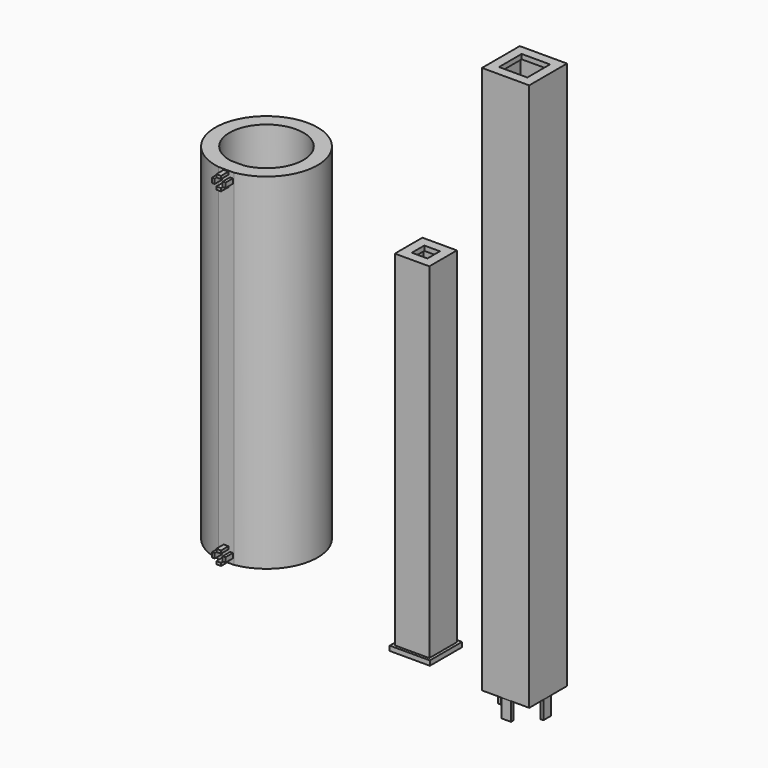
from build123d import *

# Parameters (mm, degrees)
F0_W      = 25.4
F0_H      = 25.4
F0_W_2    = 5.08
F0_H_2    = 1.524
F0_W_3    = 1.524
F0_H_3    = 5.08
F0_W_4    = 20.32
F0_H_4    = 20.32
F0_W_5    = 15.24
F0_H_5    = 15.24
F1_DEPTH  = 294.64
F2_DEPTH  = 292.1
F0_W_6    = 18.542
F0_H_6    = 18.542
F0_W_7    = 13.462
F0_H_7    = 13.462
F0_W_8    = 8.382
F0_H_8    = 8.382
F3_DEPTH  = 187.96
F4_DEPTH  = 185.42
F0_W_9    = 21.59
F0_H_9    = 21.59
F5_DEPTH  = 2.54
F6_DEPTH  = 10.16
F7_DEPTH  = 185.674
F8_W      = 1.524
F8_H      = 2.54
F8_W_2    = 2.54
F8_H_2    = 1.524
F9_DEPTH  = 4.953
F0_W_10   = 2.794
F0_H_10   = 1.778
F0_W_11   = 1.778
F0_H_11   = 2.794
F10_DEPTH = 152.4
F11_DEPTH = 147.32


with BuildPart() as f1:
    # F0 (on Top) → F1 (new body)
    with BuildSketch(Plane.XY):
        with Locations((12.7, -12.7)):
            Rectangle(F0_W, F0_H)
        with Locations((12.7, -24.13)):
            Rectangle(F0_W_2, F0_H_2, mode=Mode.SUBTRACT)
        with Locations((1.27, -12.7)):
            Rectangle(F0_W_3, F0_H_3, mode=Mode.SUBTRACT)
        with Locations((12.7, -12.7)):
            Rectangle(F0_W_4, F0_H_4, mode=Mode.SUBTRACT)
        with Locations((24.13, -12.7)):
            Rectangle(F0_W_3, F0_H_3, mode=Mode.SUBTRACT)
        with Locations((12.7, -1.27)):
            Rectangle(F0_W_2, F0_H_2, mode=Mode.SUBTRACT)
        with Locations((12.7, -12.7)):
            Rectangle(F0_W_4, F0_H_4)
        with Locations((12.7, -12.7)):
            Rectangle(F0_W_5, F0_H_5, mode=Mode.SUBTRACT)
        with Locations((1.27, -12.7)):
            Rectangle(F0_W_3, F0_H_3)
        with Locations((12.7, -24.13)):
            Rectangle(F0_W_2, F0_H_2)
        with Locations((24.13, -12.7)):
            Rectangle(F0_W_3, F0_H_3)
        with Locations((12.7, -1.27)):
            Rectangle(F0_W_2, F0_H_2)
    extrude(amount=F1_DEPTH)

    # F0 (on Top) → F2 (cut)
    with BuildSketch(Plane.XY):
        with Locations((12.7, -12.7)):
            Rectangle(F0_W_4, F0_H_4)
        with Locations((12.7, -12.7)):
            Rectangle(F0_W_5, F0_H_5, mode=Mode.SUBTRACT)
    extrude(amount=F2_DEPTH, mode=Mode.SUBTRACT)

    # F0 (on Top) → F6 (join)
    with BuildSketch(Plane.XY):
        with Locations((1.27, -12.7)):
            Rectangle(F0_W_3, F0_H_3)
        with Locations((12.7, -24.13)):
            Rectangle(F0_W_2, F0_H_2)
        with Locations((12.7, -1.27)):
            Rectangle(F0_W_2, F0_H_2)
        with Locations((24.13, -12.7)):
            Rectangle(F0_W_3, F0_H_3)
    extrude(amount=-F6_DEPTH)


with BuildPart() as f3:
    # F0 (on Top) → F3 (new body)
    with BuildSketch(Plane.XY):
        with Locations((-41.8567406106, -10.795)):
            Rectangle(F0_W_6, F0_H_6)
        with Locations((-41.8567406106, -10.795)):
            Rectangle(F0_W_7, F0_H_7, mode=Mode.SUBTRACT)
        with Locations((-41.8567406106, -10.795)):
            Rectangle(F0_W_7, F0_H_7)
        with Locations((-41.8567406106, -10.795)):
            Rectangle(F0_W_8, F0_H_8, mode=Mode.SUBTRACT)
    extrude(amount=F3_DEPTH)

    # F0 (on Top) → F4 (cut)
    with BuildSketch(Plane.XY):
        with Locations((-41.8567406106, -10.795)):
            Rectangle(F0_W_7, F0_H_7)
        with Locations((-41.8567406106, -10.795)):
            Rectangle(F0_W_8, F0_H_8, mode=Mode.SUBTRACT)
    extrude(amount=F4_DEPTH, mode=Mode.SUBTRACT)

    # F0 (on Top) → F5 (join)
    with BuildSketch(Plane.XY):
        with Locations((-41.8567406106, -10.795)):
            Rectangle(F0_W_9, F0_H_9)
        with Locations((-41.8567406106, -10.795)):
            Rectangle(F0_W_6, F0_H_6, mode=Mode.SUBTRACT)
    extrude(amount=F5_DEPTH)


with BuildPart() as f5:
    # F0 (on Top) → F5, piece 2 (new body)
    with BuildSketch(Plane.XY):
        Polygon((0, 16.0971526057), (0, 29.5591526057), (-1.27, 29.5591526057), (-10.922, 29.5591526057), (-13.462, 29.5591526057), (-13.462, 16.0971526057), align=None)
        with Locations((-6.731, 22.8281526057)):
            Rectangle(F0_W_8, F0_H_8, mode=Mode.SUBTRACT)
    extrude(amount=F5_DEPTH)

    # F0 (on Top) → F10 (join)
    with BuildSketch(Plane.XY):
        with Locations((-6.731, 22.8281526057)):
            Rectangle(F0_W_8, F0_H_8)
        with Locations((-6.731, 20.0341526057)):
            Rectangle(F0_W_10, F0_H_10, mode=Mode.SUBTRACT)
        with Locations((-9.525, 22.8281526057)):
            Rectangle(F0_W_11, F0_H_11, mode=Mode.SUBTRACT)
        with Locations((-3.937, 22.8281526057)):
            Rectangle(F0_W_11, F0_H_11, mode=Mode.SUBTRACT)
        with Locations((-6.731, 25.6221526057)):
            Rectangle(F0_W_10, F0_H_10, mode=Mode.SUBTRACT)
    extrude(amount=F10_DEPTH)

    # F0 (on Top) → F11 (join)
    with BuildSketch(Plane.XY):
        with Locations((-6.731, 20.0341526057)):
            Rectangle(F0_W_10, F0_H_10)
        with Locations((-9.525, 22.8281526057)):
            Rectangle(F0_W_11, F0_H_11)
        with Locations((-6.731, 25.6221526057)):
            Rectangle(F0_W_10, F0_H_10)
        with Locations((-3.937, 22.8281526057)):
            Rectangle(F0_W_11, F0_H_11)
    extrude(amount=F11_DEPTH)


with BuildPart() as f7:
    # F0 (on Top) → F7 (new body)
    with BuildSketch(Plane.XY):
        with BuildLine():
            Line((-161.0411958579, -1.3319319991), (-152.6591958579, -1.3319319991))
            ThreePointArc((-152.6591958579, -1.3319319991), (-156.8501958579, 53.3468376383), (-161.0411958579, -1.3319319991))
        make_face()
        with BuildLine():
            ThreePointArc((-160.409539937, 6.2880680009), (-156.8501958579, 45.7268376383), (-153.2908517788, 6.2880680009))
            Line((-153.2908517788, 6.2880680009), (-160.409539937, 6.2880680009))
        make_face(mode=Mode.SUBTRACT)
    extrude(amount=F7_DEPTH)

    # F8 (on face) → F9 (join)
    with BuildSketch(Plane.XZ.offset(1.3319319991)):
        with Locations((-159.7711958579, 181.483)):
            Rectangle(F8_W, F8_H)
        with Locations((-156.8501958579, 184.404)):
            Rectangle(F8_W_2, F8_H_2)
        with Locations((-153.9291958579, 181.483)):
            Rectangle(F8_W, F8_H)
        with Locations((-156.8501958579, 178.562)):
            Rectangle(F8_W_2, F8_H_2)
        with Locations((-159.7711958579, 4.191)):
            Rectangle(F8_W, F8_H)
        with Locations((-156.8501958579, 7.112)):
            Rectangle(F8_W_2, F8_H_2)
        with Locations((-153.9291958579, 4.191)):
            Rectangle(F8_W, F8_H)
        with Locations((-156.8501958579, 1.27)):
            Rectangle(F8_W_2, F8_H_2)
    extrude(amount=F9_DEPTH)


solid = Compound([f1.part, f3.part, f5.part, f7.part])
